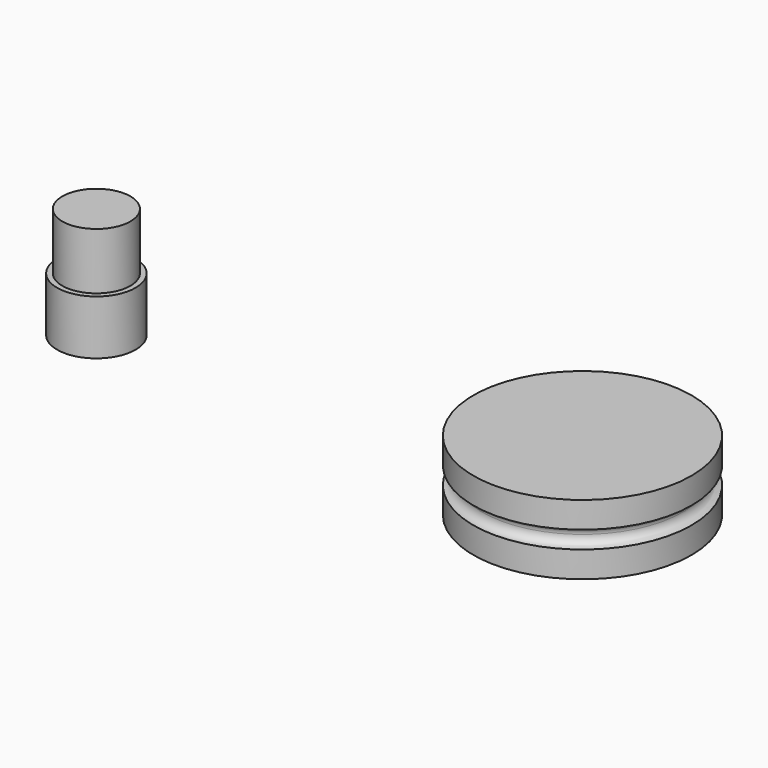
from build123d import *

# Parameters (mm, degrees)
F0_R      = 12.5
F1_DEPTH  = 8
F2_R      = 1
F4_R      = 11.25
F5_DEPTH  = 7
F6_R      = 5.625
F7_DEPTH  = 0.5
F8_R      = 4.5
F9_DEPTH  = 6.25
F10_R     = 3.9
F11_DEPTH = 6.5


with BuildPart() as f1:
    # F0 (on Top) → F1 (new body)
    with BuildSketch(Plane.XY):
        Circle(F0_R)
    extrude(amount=F1_DEPTH)

    # F3: sweep along a path in F3_path
    with BuildLine(Plane(origin=(12.5, 0, 0), x_dir=(0, -1, 0), z_dir=(0, 0, -1))) as f3_path:
        CenterArc((0, 12.5), 12.5, 0, 360)
    # F2 (on Front) → F3 (sweep, cut)
    with BuildSketch(Plane.XZ):
        with Locations((-12.5, 4)):
            Circle(F2_R)
    sweep(path=f3_path.line, mode=Mode.SUBTRACT)

    # F4 (on face) → F5 (cut)
    with BuildSketch(Plane(origin=(0, 0, 0), x_dir=(1, 0, 0), z_dir=(0, 0, -1))):
        Circle(F4_R)
    extrude(amount=-F5_DEPTH, mode=Mode.SUBTRACT)

    # F6 (on face) → F7 (cut)
    with BuildSketch(Plane(origin=(0, 0, 7), x_dir=(1, 0, 0), z_dir=(0, 0, -1))):
        Circle(F6_R)
    extrude(amount=-F7_DEPTH, mode=Mode.SUBTRACT)


with BuildPart() as f9:
    # F8 (on Top) → F9 (new body)
    with BuildSketch(Plane.XY):
        with Locations((-55.7136684656, 0)):
            Circle(F8_R)
    extrude(amount=F9_DEPTH)

    # F10 (on face) → F11 (join)
    with BuildSketch(Plane.XY.offset(6.25)):
        with Locations((-55.7136684656, 0)):
            Circle(F10_R)
    extrude(amount=F11_DEPTH)


solid = Compound([f1.part, f9.part])
